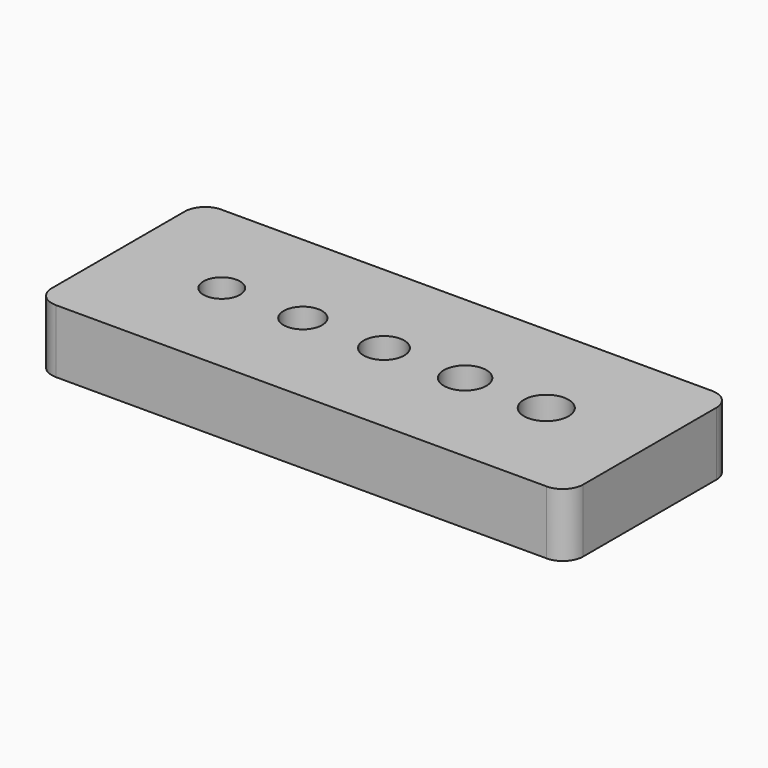
from build123d import *

# Parameters (mm, degrees)
F0_R     = 0.9
F0_R_2   = 0.95
F0_R_3   = 1
F0_R_4   = 1.05
F0_R_5   = 1.1
F1_DEPTH = 3.125


with BuildPart() as f1:
    # F0 (on Top) → F1 (new body)
    with BuildSketch(Plane.XY):
        with BuildLine():
            Line((-12.1, -5.1), (12.1, -5.1))
            ThreePointArc((12.1, -5.1), (12.807107, -4.807107), (13.1, -4.1))
            Line((13.1, -4.1), (13.1, 4.1))
            ThreePointArc((13.1, 4.1), (12.807107, 4.807107), (12.1, 5.1))
            Line((12.1, 5.1), (-12.1, 5.1))
            ThreePointArc((-12.1, 5.1), (-12.807107, 4.807107), (-13.1, 4.1))
            Line((-13.1, 4.1), (-13.1, -4.1))
            ThreePointArc((-13.1, -4.1), (-12.807107, -4.807107), (-12.1, -5.1))
        make_face()
        with Locations((-8, 0)):
            Circle(F0_R, mode=Mode.SUBTRACT)
        with Locations((-4, 0)):
            Circle(F0_R_2, mode=Mode.SUBTRACT)
        Circle(F0_R_3, mode=Mode.SUBTRACT)
        with Locations((4, 0)):
            Circle(F0_R_4, mode=Mode.SUBTRACT)
        with Locations((8, 0)):
            Circle(F0_R_5, mode=Mode.SUBTRACT)
    extrude(amount=F1_DEPTH)


solid = f1.part
